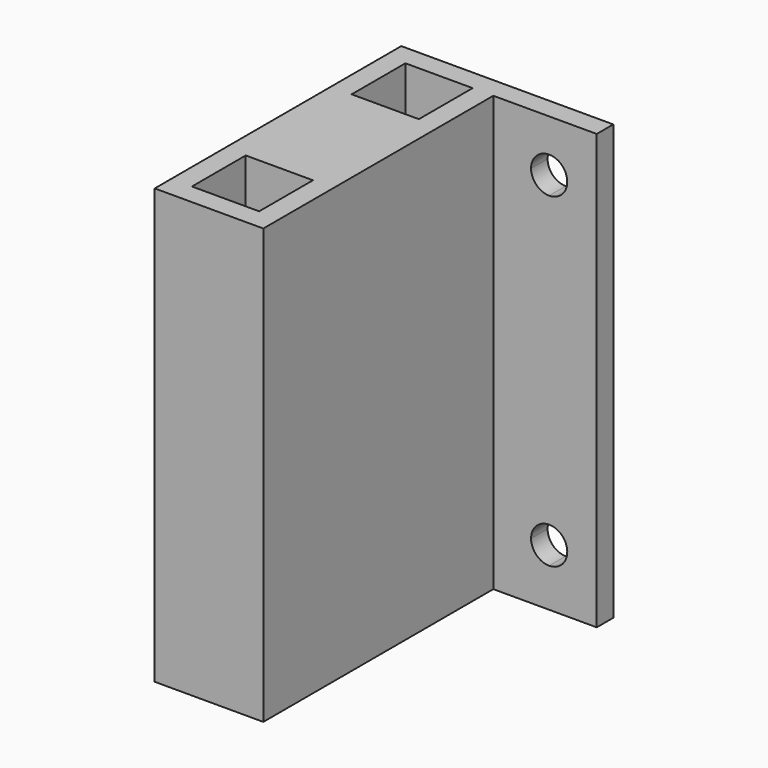
from build123d import *

# Parameters (mm, degrees)
F0_W     = 6.5
F0_H     = 6.5
F1_DEPTH = 42
F3_DEPTH = 29.801


with BuildPart() as f1:
    # F0 (on Top) → F1 (new body)
    with BuildSketch(Plane.XY):
        Polygon((20.5, 0), (0, 0), (0, -29.8), (10.5, -29.8), (10.5, -2), (20.5, -2), align=None)
        with Locations((5.25, -24.55)):
            Rectangle(F0_W, F0_H, mode=Mode.SUBTRACT)
        with Locations((5.25, -5.25)):
            Rectangle(F0_W, F0_H, mode=Mode.SUBTRACT)
    extrude(amount=F1_DEPTH)

    # F2 (on face) → F3 (cut, through all)
    with BuildSketch(Plane(origin=(0, 0, 0), x_dir=(-1, 0, 0), z_dir=(0, 1, 0))):
        with BuildLine():
            Line((-15.9, 5.5), (-14.15, 5.5))
            ThreePointArc((-14.15, 5.5), (-14.6625631329, 6.7374368671), (-15.9, 7.25))
            Line((-15.9, 7.25), (-15.9, 5.5))
        make_face()
        with BuildLine():
            Line((-15.9, 5.5), (-15.9, 3.75))
            ThreePointArc((-15.9, 3.75), (-14.6625631329, 4.2625631329), (-14.15, 5.5))
            Line((-14.15, 5.5), (-15.9, 5.5))
        make_face()
        with BuildLine():
            ThreePointArc((-15.9, 7.25), (-17.65, 5.5), (-15.9, 3.75))
            Line((-15.9, 3.75), (-15.9, 5.5))
            Line((-15.9, 5.5), (-15.9, 7.25))
        make_face()
        with BuildLine():
            ThreePointArc((-15.9, 35.25), (-14.6625631329, 35.7625631329), (-14.15, 37))
            Line((-14.15, 37), (-15.9, 37))
            Line((-15.9, 37), (-15.9, 35.25))
        make_face()
        with BuildLine():
            Line((-15.9, 37), (-14.15, 37))
            ThreePointArc((-14.15, 37), (-17.1374368671, 38.2374368671), (-15.9, 35.25))
            Line((-15.9, 35.25), (-15.9, 37))
        make_face()
    extrude(amount=-F3_DEPTH, mode=Mode.SUBTRACT)


solid = f1.part
